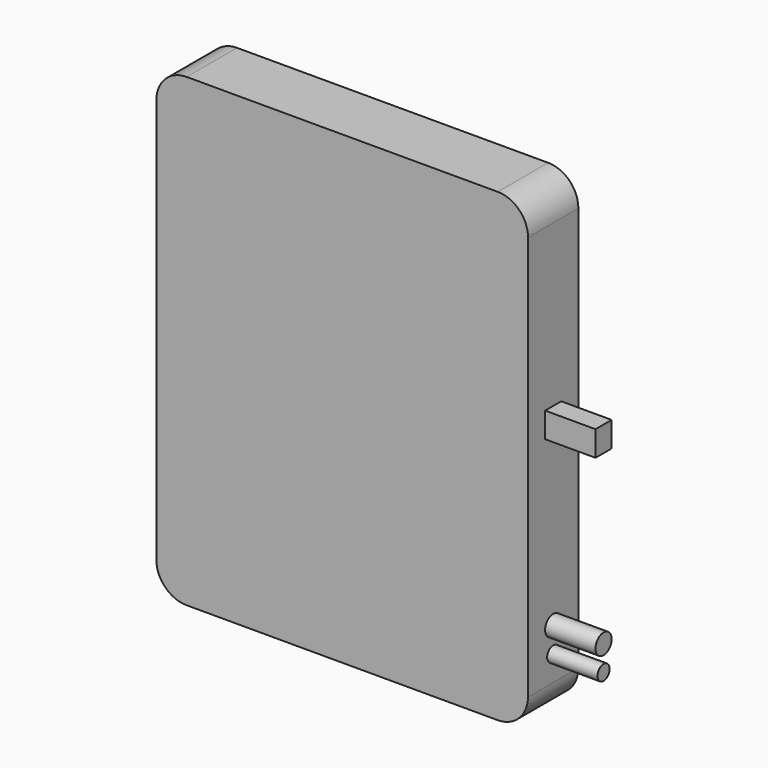
from build123d import *

# Parameters (mm, degrees)
F0_W      = 234.188
F0_H      = 293.116
F1_DEPTH  = 39.6875
F2_R      = 19.05
F3_R      = 19.05
F4_R      = 19.05
F5_R      = 19.05
F6_R      = 6.35
F7_DEPTH  = 31.75
F8_R      = 4.7625
F9_DEPTH  = 31.75
F10_W     = 12.7
F10_H     = 15.875
F11_DEPTH = 31.75


with BuildPart() as f1:
    # F0 (on Front) → F1 (new body)
    with BuildSketch(Plane.XZ):
        with Locations((0.527771, -8.937072)):
            Rectangle(F0_W, F0_H)
    extrude(amount=F1_DEPTH)

    # F2
    f2_edges = [f1.edges().sort_by_distance(p)[0] for p in [
        (117.621771, -19.84375, 137.620928),
    ]]
    fillet(f2_edges, radius=F2_R)

    # F3
    f3_edges = [f1.edges().sort_by_distance(p)[0] for p in [
        (-116.566229, -19.84375, 137.620928),
    ]]
    fillet(f3_edges, radius=F3_R)

    # F4
    f4_edges = [f1.edges().sort_by_distance(p)[0] for p in [
        (-116.566229, -19.84375, -155.495072),
    ]]
    fillet(f4_edges, radius=F4_R)

    # F5
    f5_edges = [f1.edges().sort_by_distance(p)[0] for p in [
        (117.621771, -19.84375, -155.495072),
    ]]
    fillet(f5_edges, radius=F5_R)

    # F6 (on face) → F7 (join)
    with BuildSketch(Plane.YZ.offset(117.621771)):
        with Locations((-19.84375, -104.695072)):
            Circle(F6_R)
    extrude(amount=F7_DEPTH)

    # F8 (on face) → F9 (join)
    with BuildSketch(Plane.YZ.offset(117.621771)):
        with Locations((-19.84375, -120.570072)):
            Circle(F8_R)
    extrude(amount=F9_DEPTH)

    # F10 (on face) → F11 (join)
    with BuildSketch(Plane.YZ.offset(117.621771)):
        with Locations((-19.84375, 9.033428)):
            Rectangle(F10_W, F10_H)
    extrude(amount=F11_DEPTH)


solid = f1.part
